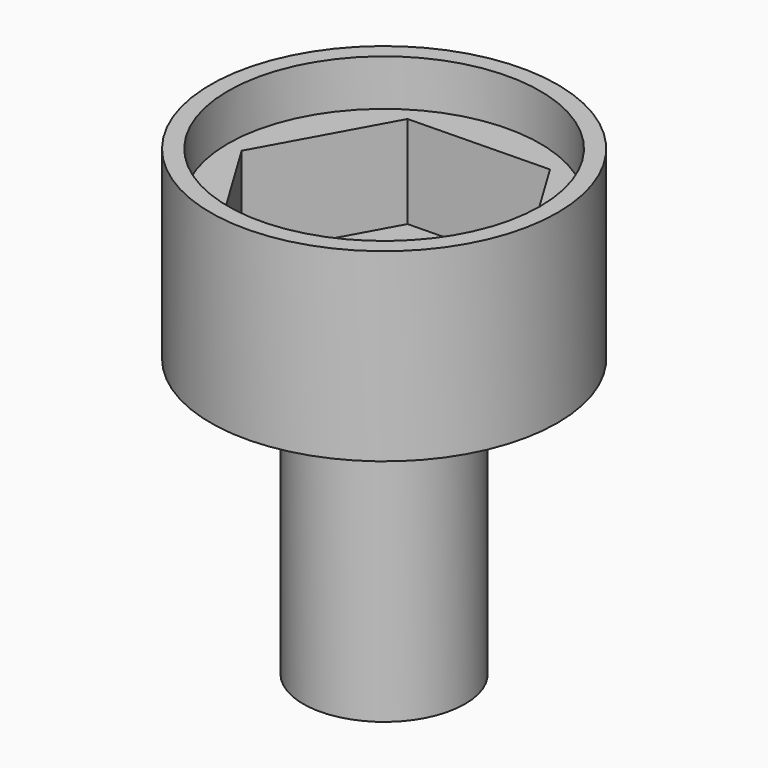
from build123d import *

# Parameters (mm, degrees)
F0_R     = 7.5
F1_DEPTH = 8
F2_R     = 6.75
F3_DEPTH = 2
F5_DEPTH = 4
F6_R     = 3.5
F7_DEPTH = 12
F8_R     = 2.6
F9_DEPTH = 12


with BuildPart() as f1:
    # F0 (on Top) → F1 (new body)
    with BuildSketch(Plane.XY):
        Circle(F0_R)
    extrude(amount=F1_DEPTH)

    # F2 (on face) → F3 (cut)
    with BuildSketch(Plane.XY.offset(8)):
        Circle(F2_R)
    extrude(amount=-F3_DEPTH, mode=Mode.SUBTRACT)

    # F4 (on face) → F5 (cut)
    with BuildSketch(Plane.XY.offset(6)):
        Polygon((6.060904, 0.124281), (2.922821, 5.311037), (-3.138083, 5.186756), (-6.060904, -0.124281), (-2.922821, -5.311037), (3.138083, -5.186756), align=None)
    extrude(amount=-F5_DEPTH, mode=Mode.SUBTRACT)

    # F6 (on face) → F7 (join)
    with BuildSketch(Plane(origin=(0, 0, 0), x_dir=(1, 0, 0), z_dir=(0, 0, -1))):
        Circle(F6_R)
    extrude(amount=F7_DEPTH)

    # F8 (on face) → F9 (cut)
    with BuildSketch(Plane(origin=(0, 0, -12), x_dir=(1, 0, 0), z_dir=(0, 0, -1))):
        Circle(F8_R)
    extrude(amount=-F9_DEPTH, mode=Mode.SUBTRACT)


solid = f1.part
